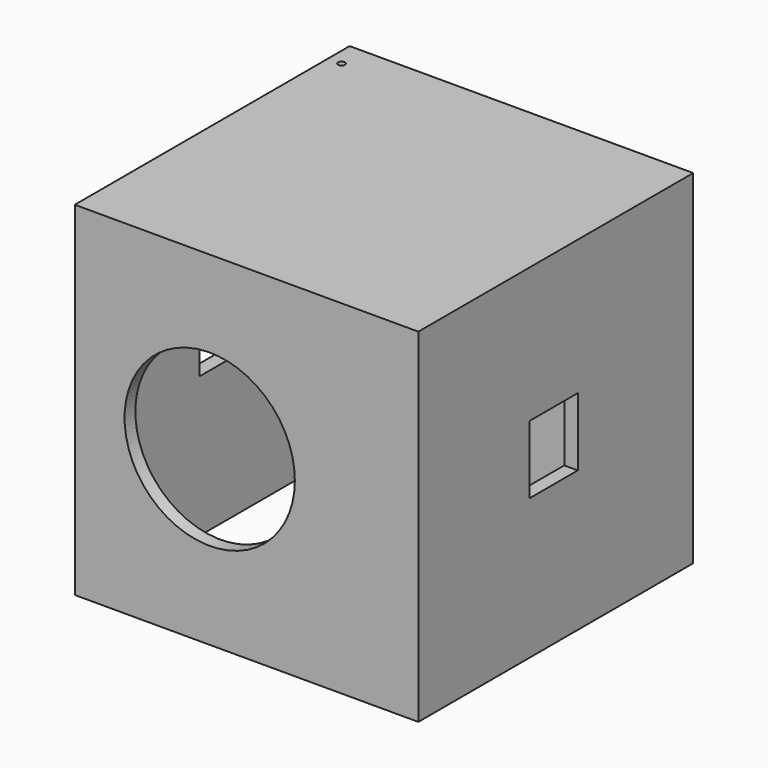
from build123d import *

# Parameters (mm, degrees)
F0_W     = 254
F0_H     = 254
F1_DEPTH = 254
F3_D     = 5
F4_T     = -10
F5_R     = 62.949933
F6_DEPTH = 254.001
F7_W     = 44.732734
F7_H     = 50.324321
F8_DEPTH = 254.001


with BuildPart() as f1:
    # F0 (on Front) → F1 (new body)
    with BuildSketch(Plane.XZ):
        with Locations((127, 127)):
            Rectangle(F0_W, F0_H)
    extrude(amount=F1_DEPTH)

    # F3 (through all)
    with Locations(Plane.XY.offset(254)):
        with Locations((10, -20)):
            Hole(F3_D / 2)

    # F4
    f4_openings = [f1.faces().sort_by_distance(p)[0] for p in [
        (127.035619, -127.032575, 0),
    ]]
    offset(amount=F4_T, openings=f4_openings)

    # F5 (on face) → F6 (cut, through all)
    with BuildSketch(Plane.XZ.offset(254)):
        with Locations((99.736825, 127.332494)):
            Circle(F5_R)
    extrude(amount=-F6_DEPTH, mode=Mode.SUBTRACT)

    # F7 (on face) → F8 (cut, through all)
    with BuildSketch(Plane.YZ.offset(254)):
        with Locations((-129.031144, 128.951653)):
            Rectangle(F7_W, F7_H)
    extrude(amount=-F8_DEPTH, mode=Mode.SUBTRACT)


solid = f1.part
